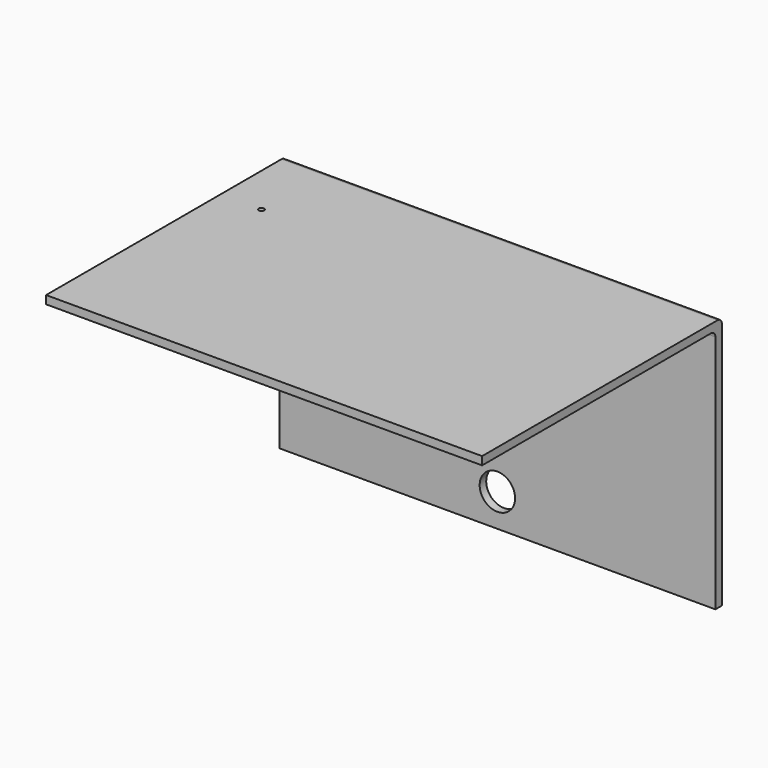
from build123d import *

# Parameters (mm, degrees)
F0_W     = 160
F0_H     = 110
F0_R     = 1
F1_DEPTH = 3
F2_W     = 160
F2_H     = 3
F3_DEPTH = 90
F4_R     = 6.5
F5_DEPTH = 110.001
F6_R     = 2


with BuildPart() as f1:
    # F0 (on Top) → F1 (new body)
    with BuildSketch(Plane.XY):
        Rectangle(F0_W, F0_H)
        with Locations((-65, 25)):
            Circle(F0_R, mode=Mode.SUBTRACT)
    extrude(amount=F1_DEPTH)

    # F2 (on face) → F3 (join)
    with BuildSketch(Plane(origin=(0, 0, 0), x_dir=(1, 0, 0), z_dir=(0, 0, -1))):
        with Locations((0, -53.5)):
            Rectangle(F2_W, F2_H)
    extrude(amount=F3_DEPTH)

    # F4 (on face) → F5 (cut, through all)
    with BuildSketch(Plane(origin=(0, 55, 0), x_dir=(-1, 0, 0), z_dir=(0, 1, 0))):
        with Locations((0, -78)):
            Circle(F4_R)
    extrude(amount=-F5_DEPTH, mode=Mode.SUBTRACT)

    # F6
    f6_edges = [f1.edges().sort_by_distance(p)[0] for p in [
        (0, 55, 3),
        (0, 52, 0),
    ]]
    fillet(f6_edges, radius=F6_R)


solid = f1.part
